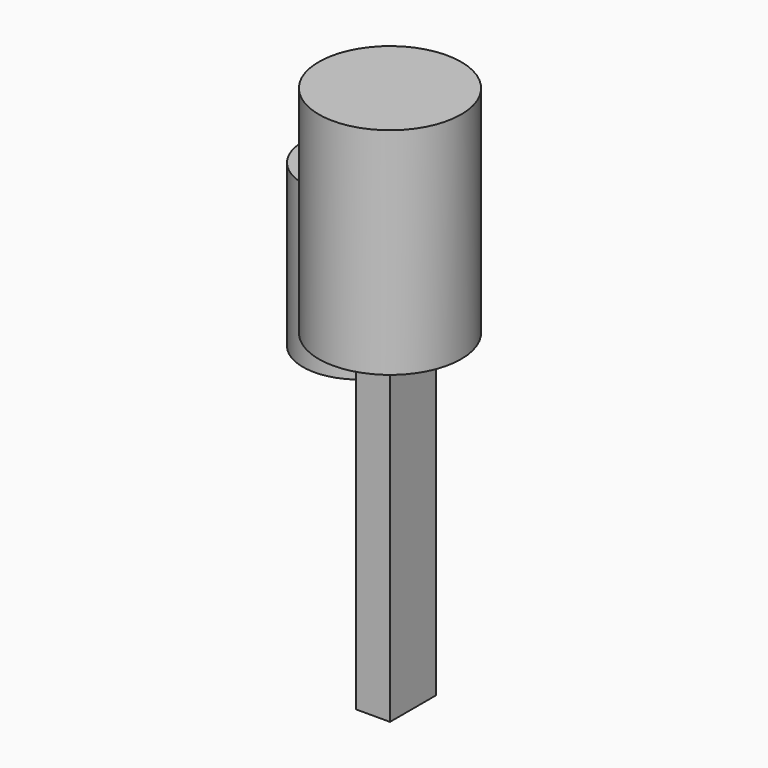
from build123d import *

# Parameters (mm, degrees)
F0_R     = 26.745197
F1_DEPTH = 50.8
F2_R     = 33.58545
F3_DEPTH = 101.6
F4_DEPTH = 50.8
F5_DEPTH = 25.4
F6_W     = 15.942245
F6_H     = 27.044877
F7_DEPTH = 152.4


with BuildPart() as f1:
    # F0 (on Top) → F1 (new body)
    with BuildSketch(Plane.XY):
        with Locations((-60.452543, 36.618207)):
            Circle(F0_R)
    extrude(amount=F1_DEPTH)

    # F2 (on Top) → F3 (join)
    with BuildSketch(Plane.XY):
        with Locations((-27.838308, 13.809561)):
            Circle(F2_R)
    extrude(amount=F3_DEPTH)

    # F0 (on Top) → F4 (join)
    with BuildSketch(Plane.XY):
        with Locations((-60.452543, 36.618207)):
            Circle(F0_R)
    extrude(amount=F4_DEPTH)

    # F0 (on Top) → F5 (join)
    with BuildSketch(Plane.XY):
        with Locations((-60.452543, 36.618207)):
            Circle(F0_R)
    extrude(amount=-F5_DEPTH)

    # F6 (on Top) → F7 (join)
    with BuildSketch(Plane.XY):
        with Locations((-24.767418, 13.522438)):
            Rectangle(F6_W, F6_H)
    extrude(amount=-F7_DEPTH)


solid = f1.part
